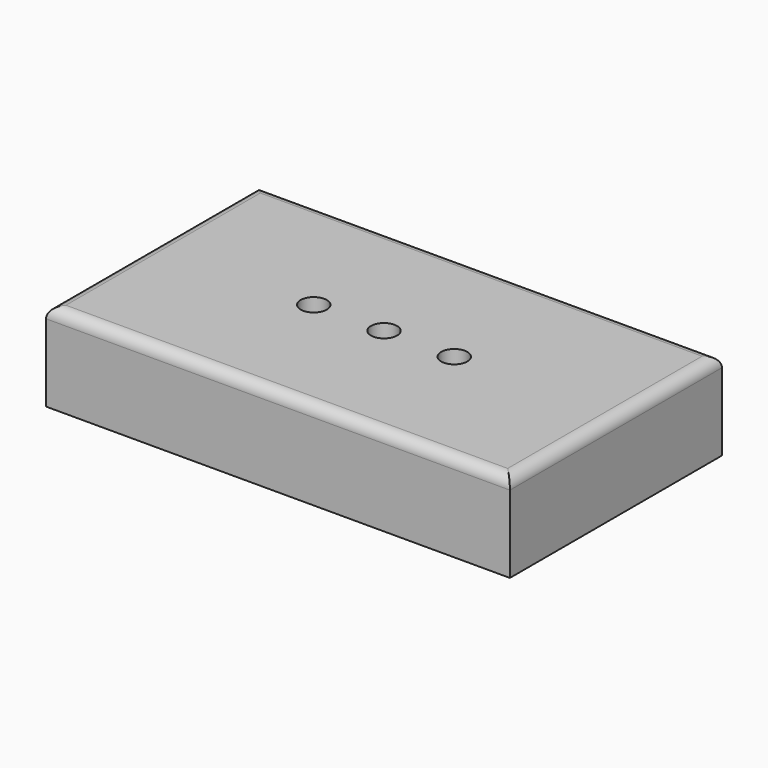
from build123d import *

# Parameters (mm, degrees)
F0_W     = 266.7
F0_H     = 152.4
F0_R     = 7.5
F1_DEPTH = 50.8
F2_R     = 6.35


with BuildPart() as f1:
    # F0 (on Top) → F1 (new body)
    with BuildSketch(Plane.XY):
        Rectangle(F0_W, F0_H)
        with Locations((-40.4, 0)):
            Circle(F0_R, mode=Mode.SUBTRACT)
        with BuildLine():
            ThreePointArc((-7.5, 0), (0, 7.5), (7.5, 0))
            ThreePointArc((7.5, 0), (0, -7.5), (-7.5, 0))
        make_face(mode=Mode.SUBTRACT)
        with BuildLine():
            ThreePointArc((47.9, 0), (40.4, -7.5), (32.9, 0))
            ThreePointArc((32.9, 0), (40.4, 7.5), (47.9, 0))
        make_face(mode=Mode.SUBTRACT)
    extrude(amount=F1_DEPTH)

    # F2
    f2_edges = [f1.edges().sort_by_distance(p)[0] for p in [
        (0, 76.2, 50.8),
        (-133.35, 0, 50.8),
        (0, -76.2, 50.8),
        (133.35, 0, 50.8),
    ]]
    fillet(f2_edges, radius=F2_R)


solid = f1.part
